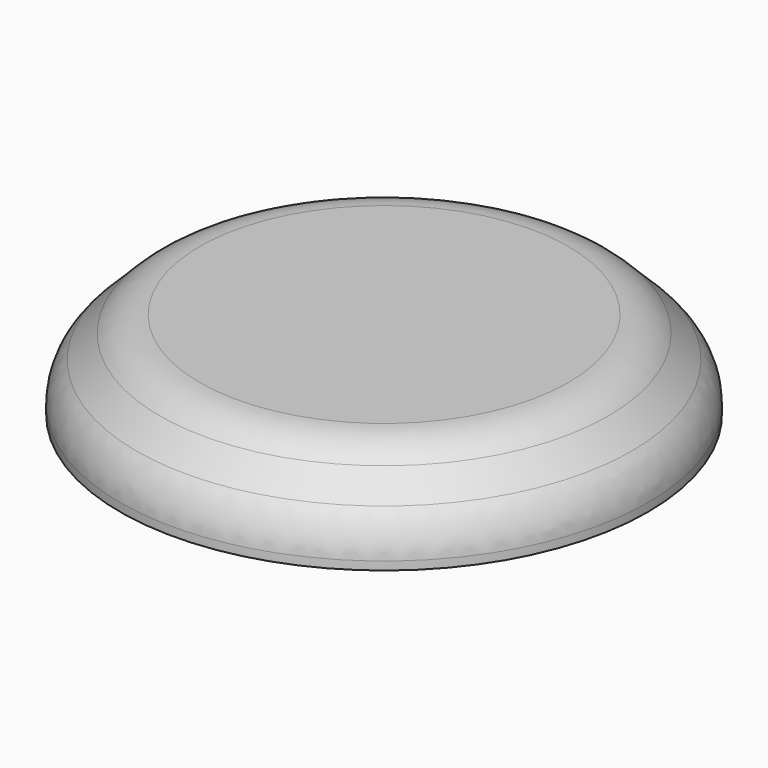
from build123d import *

# Parameters (mm, degrees)
F0_R     = 9.525
F1_DEPTH = 3.175
F2_SIZE  = 2.032
F3_R     = 2.032


with BuildPart() as f1:
    # F0 (on Top) → F1 (new body)
    with BuildSketch(Plane.XY):
        Circle(F0_R)
    extrude(amount=F1_DEPTH)

    # F2
    f2_edges = [f1.edges().sort_by_distance(p)[0] for p in [
        (-9.525, 0, 3.175),
    ]]
    chamfer(f2_edges, length=F2_SIZE)

    # F3
    f3_edges = [f1.edges().sort_by_distance(p)[0] for p in [
        (-7.493, 0, 3.175),
        (-9.525, 0, 1.143),
    ]]
    fillet(f3_edges, radius=F3_R)


solid = f1.part
